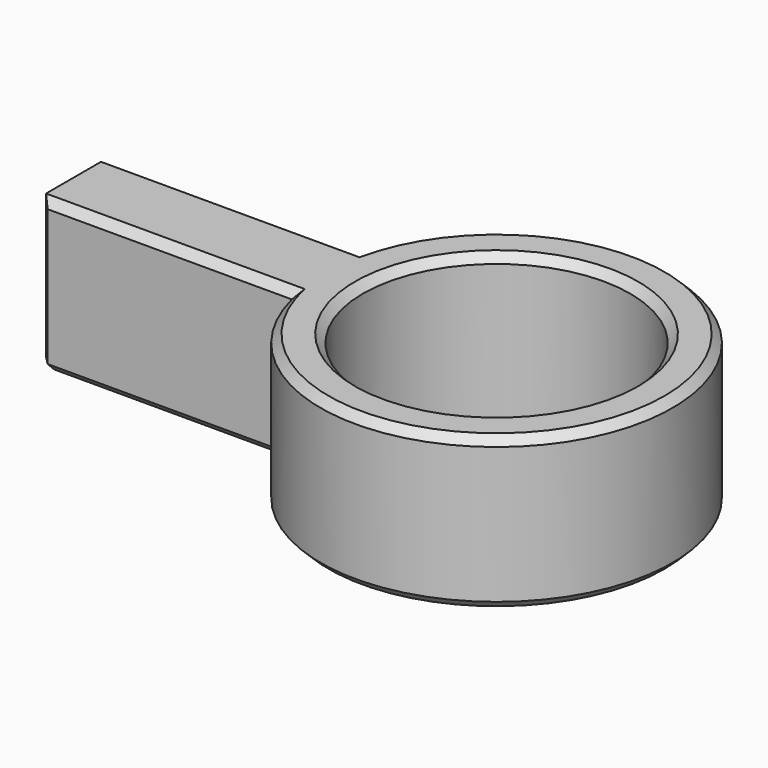
from build123d import *

# Parameters (mm, degrees)
F0_R     = 10.033
F1_DEPTH = 11.43
F2_SIZE  = 0.6


with BuildPart() as f1:
    # F0 (on Top) → F1 (new body)
    with BuildSketch(Plane.XY):
        with BuildLine():
            Line((-31.75, -3.175), (-12.820711, -3.175))
            ThreePointArc((-12.820711, -3.175), (13.208, 0), (-12.820711, 3.175))
            Line((-12.820711, 3.175), (-31.75, 3.175))
            Line((-31.75, 3.175), (-31.75, -3.175))
        make_face()
        Circle(F0_R, mode=Mode.SUBTRACT)
    extrude(amount=F1_DEPTH)

    # F2
    f2_edges = [f1.edges().sort_by_distance(p)[0] for p in [
        (-10.033, 0, 11.43),
        (13.208, 0, 11.43),
        (-22.285356, -3.175, 11.43),
        (-22.285356, 3.175, 11.43),
        (-22.285356, -3.175, 0),
        (-31.75, -3.175, 5.715),
        (13.208, 0, 0),
        (-10.033, 0, 0),
        (-22.285356, 3.175, 0),
        (-31.75, 0, 0),
    ]]
    chamfer(f2_edges, length=F2_SIZE)


solid = f1.part
